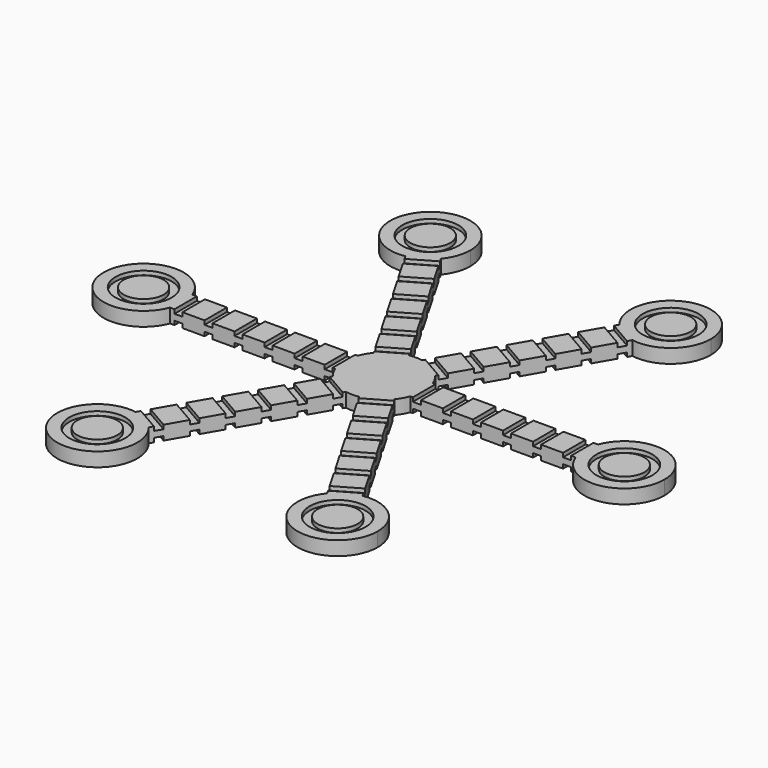
from build123d import *

# Parameters (mm, degrees)
F1_DEPTH = 3.5
F2_W     = 2
F2_H     = 6.9934307655
F2_R     = 7
F2_R_2   = 5
F3_DEPTH = 1
F4_W     = 2
F4_H     = 6.9934307655
F4_R     = 7
F4_R_2   = 5
F5_DEPTH = 1


with BuildPart() as f1:
    # F0 (on Top) → F1 (new body)
    with BuildSketch(Plane.XY):
        with BuildLine():
            Line((-59.8485457921, 3.4934307655), (-50.6300511481, 3.4934307655))
            ThreePointArc((-50.6300511481, 3.4934307655), (-69.9999993854, 0.0035059389), (-50.6325030024, -3.5))
            Line((-50.6325030024, -3.5), (-60.1517390105, -3.5))
            Line((-60.1517390105, -3.5), (-59.8485457921, 3.4934307655))
        make_face()
        with BuildLine():
            ThreePointArc((-9.3674969976, -3.5), (-9.9999993854, -0.0035059389), (-9.3699488519, 3.4934307655))
            Line((-9.3699488519, 3.4934307655), (-50.6300511481, 3.4934307655))
            ThreePointArc((-50.6300511481, 3.4934307655), (-50.158773234, 1.7748959803), (-50, 0))
            ThreePointArc((-50, 0), (-50.1593961065, -1.7783461452), (-50.6325030024, -3.5))
            Line((-50.6325030024, -3.5), (-9.3674969976, -3.5))
        make_face()
        with BuildLine():
            Line((-26.8988731067, 53.5770764183), (-22.2896257848, 45.593625872))
            ThreePointArc((-22.2896257848, 45.593625872), (-20.5897996261, 48.5780158521), (-20, 51.9615242271))
            ThreePointArc((-20, 51.9615242271), (-37.6330398877, 58.4219191122), (-28.3473404144, 42.0990338573))
            Line((-28.3473404144, 42.0990338573), (-33.1069584185, 50.3429340649))
            Line((-33.1069584185, 50.3429340649), (-26.8988731067, 53.5770764183))
        make_face()
        with BuildLine():
            ThreePointArc((-28.3473404144, 42.0990338573), (-25.0030365395, 43.299517752), (-22.2896257848, 45.593625872))
            Line((-22.2896257848, 45.593625872), (-26.8988731067, 53.5770764183))
            Line((-26.8988731067, 53.5770764183), (-33.1069584185, 50.3429340649))
            Line((-33.1069584185, 50.3429340649), (-28.3473404144, 42.0990338573))
        make_face()
        with BuildLine():
            ThreePointArc((-50, 0), (-50.158773234, 1.7748959803), (-50.6300511481, 3.4934307655))
            Line((-50.6300511481, 3.4934307655), (-59.8485457921, 3.4934307655))
            Line((-59.8485457921, 3.4934307655), (-60.1517390105, -3.5))
            Line((-60.1517390105, -3.5), (-50.6325030024, -3.5))
            ThreePointArc((-50.6325030024, -3.5), (-50.1593961065, -1.7783461452), (-50, 0))
        make_face()
        with BuildLine():
            Line((32.9496726854, 50.0836456528), (28.3404253634, 42.1001951064))
            ThreePointArc((28.3404253634, 42.1001951064), (36.457718391, 44.3262198335), (40, 51.9615242271))
            ThreePointArc((40, 51.9615242271), (26.6197909917, 61.37291026), (22.285162588, 45.5990338573))
            Line((22.285162588, 45.5990338573), (27.044780592, 53.8429340649))
            Line((27.044780592, 53.8429340649), (32.9496726854, 50.0836456528))
        make_face()
        with BuildLine():
            ThreePointArc((22.285162588, 45.5990338573), (24.9969640751, 43.3030236909), (28.3404253634, 42.1001951064))
            Line((28.3404253634, 42.1001951064), (32.9496726854, 50.0836456528))
            Line((32.9496726854, 50.0836456528), (27.044780592, 53.8429340649))
            Line((27.044780592, 53.8429340649), (22.285162588, 45.5990338573))
        make_face()
        with BuildLine():
            ThreePointArc((1.6526595856, 9.8624903698), (4.9969634605, 8.6620064751), (7.7103742152, 6.3678983551))
            Line((7.7103742152, 6.3678983551), (28.3404253634, 42.1001951064))
            ThreePointArc((28.3404253634, 42.1001951064), (24.9969640751, 43.3030236909), (22.285162588, 45.5990338573))
            Line((22.285162588, 45.5990338573), (1.6526595856, 9.8624903698))
        make_face()
        with BuildLine():
            ThreePointArc((9.3699488519, -3.4934307655), (9.841226766, -1.7748959803), (10, 0))
            ThreePointArc((10, 0), (9.8406038935, 1.7783461452), (9.3674969976, 3.5))
            ThreePointArc((9.3674969976, 3.5), (8.6585005361, 5.0030359249), (7.7103742152, 6.3678983551))
            ThreePointArc((7.7103742152, 6.3678983551), (4.9969634605, 8.6620064751), (1.6526595856, 9.8624903698))
            ThreePointArc((1.6526595856, 9.8624903698), (-0.0035059389, 9.9999993854), (-1.6595746366, 9.8613291206))
            ThreePointArc((-1.6595746366, 9.8613291206), (-5.0030359249, 8.6585005361), (-7.714837412, 6.3624903698))
            ThreePointArc((-7.714837412, 6.3624903698), (-8.6620064751, 4.9969634605), (-9.3699488519, 3.4934307655))
            ThreePointArc((-9.3699488519, 3.4934307655), (-9.9999993854, -0.0035059389), (-9.3674969976, -3.5))
            ThreePointArc((-9.3674969976, -3.5), (-8.6585005361, -5.0030359249), (-7.7103742152, -6.3678983551))
            ThreePointArc((-7.7103742152, -6.3678983551), (-4.9969634605, -8.6620064751), (-1.6526595856, -9.8624903698))
            ThreePointArc((-1.6526595856, -9.8624903698), (0.0035059389, -9.9999993854), (1.6595746366, -9.8613291206))
            ThreePointArc((1.6595746366, -9.8613291206), (5.0030359249, -8.6585005361), (7.714837412, -6.3624903698))
            ThreePointArc((7.714837412, -6.3624903698), (8.6620064751, -4.9969634605), (9.3699488519, -3.4934307655))
        make_face()
        with BuildLine():
            ThreePointArc((9.3674969976, 3.5), (9.8406038935, 1.7783461452), (10, 0))
            ThreePointArc((10, 0), (9.841226766, -1.7748959803), (9.3699488519, -3.4934307655))
            Line((9.3699488519, -3.4934307655), (50.6300511481, -3.4934307655))
            ThreePointArc((50.6300511481, -3.4934307655), (50.0000006146, 0.0035059389), (50.6325030024, 3.5))
            Line((50.6325030024, 3.5), (9.3674969976, 3.5))
        make_face()
        with BuildLine():
            Line((60.1517390105, 3.5), (50.6325030024, 3.5))
            ThreePointArc((50.6325030024, 3.5), (50.0000006146, 0.0035059389), (50.6300511481, -3.4934307655))
            Line((50.6300511481, -3.4934307655), (59.8485457921, -3.4934307655))
            Line((59.8485457921, -3.4934307655), (60.1517390105, 3.5))
        make_face()
        with BuildLine():
            ThreePointArc((70, 0), (61.7783461452, 9.8406038935), (50.6325030024, 3.5))
            Line((50.6325030024, 3.5), (60.1517390105, 3.5))
            Line((60.1517390105, 3.5), (59.8485457921, -3.4934307655))
            Line((59.8485457921, -3.4934307655), (50.6300511481, -3.4934307655))
            ThreePointArc((50.6300511481, -3.4934307655), (61.7748959803, -9.841226766), (70, 0))
        make_face()
        with BuildLine():
            ThreePointArc((40, -51.9615242271), (36.4603948852, -44.3284843393), (28.3473404144, -42.0990338573))
            Line((28.3473404144, -42.0990338573), (33.1069584185, -50.3429340649))
            Line((33.1069584185, -50.3429340649), (26.8988731067, -53.5770764183))
            Line((26.8988731067, -53.5770764183), (22.2896257848, -45.593625872))
            ThreePointArc((22.2896257848, -45.593625872), (26.616491625, -61.3717246009), (40, -51.9615242271))
        make_face()
        with BuildLine():
            Line((33.1069584185, -50.3429340649), (28.3473404144, -42.0990338573))
            ThreePointArc((28.3473404144, -42.0990338573), (25.0030365395, -43.299517752), (22.2896257848, -45.593625872))
            Line((22.2896257848, -45.593625872), (26.8988731067, -53.5770764183))
            Line((26.8988731067, -53.5770764183), (33.1069584185, -50.3429340649))
        make_face()
        with BuildLine():
            Line((28.3473404144, -42.0990338573), (7.714837412, -6.3624903698))
            ThreePointArc((7.714837412, -6.3624903698), (5.0030359249, -8.6585005361), (1.6595746366, -9.8613291206))
            Line((1.6595746366, -9.8613291206), (22.2896257848, -45.593625872))
            ThreePointArc((22.2896257848, -45.593625872), (25.0030365395, -43.299517752), (28.3473404144, -42.0990338573))
        make_face()
        with BuildLine():
            Line((-22.285162588, -45.5990338573), (-1.6526595856, -9.8624903698))
            ThreePointArc((-1.6526595856, -9.8624903698), (-4.9969634605, -8.6620064751), (-7.7103742152, -6.3678983551))
            Line((-7.7103742152, -6.3678983551), (-28.3404253634, -42.1001951064))
            ThreePointArc((-28.3404253634, -42.1001951064), (-24.9969640751, -43.3030236909), (-22.285162588, -45.5990338573))
        make_face()
        with BuildLine():
            Line((-27.044780592, -53.8429340649), (-22.285162588, -45.5990338573))
            ThreePointArc((-22.285162588, -45.5990338573), (-24.9969640751, -43.3030236909), (-28.3404253634, -42.1001951064))
            Line((-28.3404253634, -42.1001951064), (-32.9496726854, -50.0836456528))
            Line((-32.9496726854, -50.0836456528), (-27.044780592, -53.8429340649))
        make_face()
        with BuildLine():
            ThreePointArc((-20, -51.9615242271), (-20.5886139671, -48.5813152188), (-22.285162588, -45.5990338573))
            Line((-22.285162588, -45.5990338573), (-27.044780592, -53.8429340649))
            Line((-27.044780592, -53.8429340649), (-32.9496726854, -50.0836456528))
            Line((-32.9496726854, -50.0836456528), (-28.3404253634, -42.1001951064))
            ThreePointArc((-28.3404253634, -42.1001951064), (-37.6353043936, -58.419242618), (-20, -51.9615242271))
        make_face()
        with BuildLine():
            ThreePointArc((-7.714837412, 6.3624903698), (-5.0030359249, 8.6585005361), (-1.6595746366, 9.8613291206))
            Line((-1.6595746366, 9.8613291206), (-22.2896257848, 45.593625872))
            ThreePointArc((-22.2896257848, 45.593625872), (-25.0030365395, 43.299517752), (-28.3473404144, 42.0990338573))
            Line((-28.3473404144, 42.0990338573), (-7.714837412, 6.3624903698))
        make_face()
    extrude(amount=F1_DEPTH)

    # F2 (on face) → F3 (cut)
    with BuildSketch(Plane.XY.offset(3.5)):
        Polygon((-17.9689110868, -38.1230669589), (-16.9689110868, -36.3910161514), (-23.0253997893, -32.8943007686), (-24.0253997893, -34.6263515762), align=None)
        Polygon((-14.2189110868, -31.6278764306), (-13.2189110868, -29.895825623), (-19.2753997893, -26.3991102402), (-20.2753997893, -28.1311610478), align=None)
        Polygon((-10.4689110868, -25.1326859022), (-9.4689110868, -23.4006350946), (-15.5253997893, -19.9039197118), (-16.5253997893, -21.6359705194), align=None)
        Polygon((-6.7189110868, -18.6374953738), (-5.7189110868, -16.9054445662), (-11.7753997893, -13.4087291835), (-12.7753997893, -15.140779991), align=None)
        Polygon((-2.9689110868, -12.1423048454), (-1.9689110868, -10.4102540378), (-8.0253997893, -6.9135386551), (-9.0253997893, -8.6455894626), align=None)
        Polygon((9.0310889132, -8.6423048454), (8.0310889132, -6.9102540378), (1.9746002107, -10.4069694206), (2.9746002107, -12.1390202282), align=None)
        Polygon((12.7810889132, -15.1374953738), (11.7810889132, -13.4054445662), (5.7246002107, -16.902159949), (6.7246002107, -18.6342107566), align=None)
        Polygon((16.5310889132, -21.6326859022), (15.5310889132, -19.9006350946), (9.4746002107, -23.3973504774), (10.4746002107, -25.1294012849), align=None)
        Polygon((20.2810889132, -28.1278764306), (19.2810889132, -26.395825623), (13.2246002107, -29.8925410058), (14.2246002107, -31.6245918133), align=None)
        Polygon((24.0310889132, -34.6230669589), (23.0310889132, -32.8910161514), (16.9746002107, -36.3877315341), (17.9746002107, -38.1197823417), align=None)
        with Locations((41, 0.0032846172)):
            Rectangle(F2_W, F2_H)
        with Locations((26, 0.0032846172)):
            Rectangle(F2_W, F2_H)
        with Locations((18.5, 0.0032846172)):
            Rectangle(F2_W, F2_H)
        with Locations((11, 0.0032846172)):
            Rectangle(F2_W, F2_H)
        Polygon((16.9689110868, 36.3910161514), (23.0253997893, 32.8943007686), (24.0253997893, 34.6263515762), (17.9689110868, 38.1230669589), align=None)
        Polygon((13.2189110868, 29.895825623), (19.2753997893, 26.3991102402), (20.2753997893, 28.1311610478), (14.2189110868, 31.6278764306), align=None)
        Polygon((9.4689110868, 23.4006350946), (15.5253997893, 19.9039197118), (16.5253997893, 21.6359705194), (10.4689110868, 25.1326859022), align=None)
        Polygon((5.7189110868, 16.9054445662), (11.7753997893, 13.4087291835), (12.7753997893, 15.140779991), (6.7189110868, 18.6374953738), align=None)
        Polygon((1.9689110868, 10.4102540378), (8.0253997893, 6.9135386551), (9.0253997893, 8.6455894626), (2.9689110868, 12.1423048454), align=None)
        Polygon((-8.0310889132, 6.9102540378), (-1.9746002107, 10.4069694206), (-2.9746002107, 12.1390202282), (-9.0310889132, 8.6423048454), align=None)
        Polygon((-11.7810889132, 13.4054445662), (-5.7246002107, 16.902159949), (-6.7246002107, 18.6342107566), (-12.7810889132, 15.1374953738), align=None)
        Polygon((-15.5310889132, 19.9006350946), (-9.4746002107, 23.3973504774), (-10.4746002107, 25.1294012849), (-16.5310889132, 21.6326859022), align=None)
        Polygon((-19.2810889132, 26.395825623), (-13.2246002107, 29.8925410058), (-14.2246002107, 31.6245918133), (-20.2810889132, 28.1278764306), align=None)
        Polygon((-23.0310889132, 32.8910161514), (-16.9746002107, 36.3877315341), (-17.9746002107, 38.1197823417), (-24.0310889132, 34.6230669589), align=None)
        with Locations((-11, -0.0032846172)):
            Rectangle(F2_W, F2_H)
        with Locations((-18.5, -0.0032846172)):
            Rectangle(F2_W, F2_H)
        with Locations((-26, -0.0032846172)):
            Rectangle(F2_W, F2_H)
        with Locations((-33.5, -0.0032846172)):
            Rectangle(F2_W, F2_H)
        with Locations((-41, -0.0032846172)):
            Rectangle(F2_W, F2_H)
        with Locations((-30, 51.9615242271)):
            Circle(F2_R)
        with Locations((-30, 51.9615242271)):
            Circle(F2_R_2, mode=Mode.SUBTRACT)
        with Locations((30, 51.9615242271)):
            Circle(F2_R)
        with Locations((30, 51.9615242271)):
            Circle(F2_R_2, mode=Mode.SUBTRACT)
        with Locations((60, 0)):
            Circle(F2_R)
        with Locations((60, 0)):
            Circle(F2_R_2, mode=Mode.SUBTRACT)
        with Locations((30, -51.9615242271)):
            Circle(F2_R)
        with Locations((30, -51.9615242271)):
            Circle(F2_R_2, mode=Mode.SUBTRACT)
        with Locations((-30, -51.9615242271)):
            Circle(F2_R)
        with Locations((-30, -51.9615242271)):
            Circle(F2_R_2, mode=Mode.SUBTRACT)
        with Locations((-60, 0)):
            Circle(F2_R)
        with Locations((-60, 0)):
            Circle(F2_R_2, mode=Mode.SUBTRACT)
        with Locations((33.5, 0.0032846172)):
            Rectangle(F2_W, F2_H)
        with Locations((48.5, 0.0032846172)):
            Rectangle(F2_W, F2_H)
        Polygon((20.7189110868, 42.8862066798), (26.7753997893, 39.389491297), (27.7753997893, 41.1215421046), (21.7189110868, 44.6182574873), align=None)
        Polygon((-26.7810889132, 39.3862066798), (-20.7246002107, 42.8829220625), (-21.7246002107, 44.6149728701), (-27.7810889132, 41.1182574873), align=None)
        with Locations((-48.5, -0.0032846172)):
            Rectangle(F2_W, F2_H)
        Polygon((-21.7189110868, -44.6182574873), (-20.7189110868, -42.8862066798), (-26.7753997893, -39.389491297), (-27.7753997893, -41.1215421046), align=None)
        Polygon((27.7810889132, -41.1182574873), (26.7810889132, -39.3862066798), (20.7246002107, -42.8829220625), (21.7246002107, -44.6149728701), align=None)
    extrude(amount=-F3_DEPTH, mode=Mode.SUBTRACT)

    # F4 (on face) → F5 (cut)
    with BuildSketch(Plane(origin=(0, 0, 0), x_dir=(1, 0, 0), z_dir=(0, 0, -1))):
        Polygon((9.0253997893, -8.6455894626), (8.0253997893, -6.9135386551), (1.9689110868, -10.4102540378), (2.9689110868, -12.1423048454), align=None)
        Polygon((12.7753997893, -15.140779991), (11.7753997893, -13.4087291835), (5.7189110868, -16.9054445662), (6.7189110868, -18.6374953738), align=None)
        Polygon((16.5253997893, -21.6359705194), (15.5253997893, -19.9039197118), (9.4689110868, -23.4006350946), (10.4689110868, -25.1326859022), align=None)
        Polygon((20.2753997893, -28.1311610478), (19.2753997893, -26.3991102402), (13.2189110868, -29.895825623), (14.2189110868, -31.6278764306), align=None)
        Polygon((24.0253997893, -34.6263515762), (23.0253997893, -32.8943007686), (16.9689110868, -36.3910161514), (17.9689110868, -38.1230669589), align=None)
        Polygon((27.7753997893, -41.1215421046), (26.7753997893, -39.389491297), (20.7189110868, -42.8862066798), (21.7189110868, -44.6182574873), align=None)
        with Locations((11, -0.0032846172)):
            Rectangle(F4_W, F4_H)
        with Locations((18.5, -0.0032846172)):
            Rectangle(F4_W, F4_H)
        with Locations((26, -0.0032846172)):
            Rectangle(F4_W, F4_H)
        with Locations((33.5, -0.0032846172)):
            Rectangle(F4_W, F4_H)
        with Locations((41, -0.0032846172)):
            Rectangle(F4_W, F4_H)
        with Locations((48.5, -0.0032846172)):
            Rectangle(F4_W, F4_H)
        Polygon((20.7246002107, 42.8829220625), (26.7810889132, 39.3862066798), (27.7810889132, 41.1182574873), (21.7246002107, 44.6149728701), align=None)
        Polygon((16.9746002107, 36.3877315341), (23.0310889132, 32.8910161514), (24.0310889132, 34.6230669589), (17.9746002107, 38.1197823417), align=None)
        Polygon((13.2246002107, 29.8925410058), (19.2810889132, 26.395825623), (20.2810889132, 28.1278764306), (14.2246002107, 31.6245918133), align=None)
        Polygon((9.4746002107, 23.3973504774), (15.5310889132, 19.9006350946), (16.5310889132, 21.6326859022), (10.4746002107, 25.1294012849), align=None)
        Polygon((5.7246002107, 16.902159949), (11.7810889132, 13.4054445662), (12.7810889132, 15.1374953738), (6.7246002107, 18.6342107566), align=None)
        Polygon((1.9746002107, 10.4069694206), (8.0310889132, 6.9102540378), (9.0310889132, 8.6423048454), (2.9746002107, 12.1390202282), align=None)
        Polygon((-2.9746002107, -12.1390202282), (-1.9746002107, -10.4069694206), (-8.0310889132, -6.9102540378), (-9.0310889132, -8.6423048454), align=None)
        Polygon((-6.7246002107, -18.6342107566), (-5.7246002107, -16.902159949), (-11.7810889132, -13.4054445662), (-12.7810889132, -15.1374953738), align=None)
        Polygon((-10.4746002107, -25.1294012849), (-9.4746002107, -23.3973504774), (-15.5310889132, -19.9006350946), (-16.5310889132, -21.6326859022), align=None)
        Polygon((-14.2246002107, -31.6245918133), (-13.2246002107, -29.8925410058), (-19.2810889132, -26.395825623), (-20.2810889132, -28.1278764306), align=None)
        Polygon((-17.9746002107, -38.1197823417), (-16.9746002107, -36.3877315341), (-23.0310889132, -32.8910161514), (-24.0310889132, -34.6230669589), align=None)
        Polygon((-21.7246002107, -44.6149728701), (-20.7246002107, -42.8829220625), (-26.7810889132, -39.3862066798), (-27.7810889132, -41.1182574873), align=None)
        with Locations((-48.5, 0.0032846172)):
            Rectangle(F4_W, F4_H)
        with Locations((-41, 0.0032846172)):
            Rectangle(F4_W, F4_H)
        with Locations((-33.5, 0.0032846172)):
            Rectangle(F4_W, F4_H)
        with Locations((-26, 0.0032846172)):
            Rectangle(F4_W, F4_H)
        with Locations((-18.5, 0.0032846172)):
            Rectangle(F4_W, F4_H)
        with Locations((-11, 0.0032846172)):
            Rectangle(F4_W, F4_H)
        Polygon((-23.0253997893, 32.8943007686), (-16.9689110868, 36.3910161514), (-17.9689110868, 38.1230669589), (-24.0253997893, 34.6263515762), align=None)
        Polygon((-19.2753997893, 26.3991102402), (-13.2189110868, 29.895825623), (-14.2189110868, 31.6278764306), (-20.2753997893, 28.1311610478), align=None)
        Polygon((-8.0253997893, 6.9135386551), (-1.9689110868, 10.4102540378), (-2.9689110868, 12.1423048454), (-9.0253997893, 8.6455894626), align=None)
        Polygon((-26.7753997893, 39.389491297), (-20.7189110868, 42.8862066798), (-21.7189110868, 44.6182574873), (-27.7753997893, 41.1215421046), align=None)
        Polygon((-15.5253997893, 19.9039197118), (-9.4689110868, 23.4006350946), (-10.4689110868, 25.1326859022), (-16.5253997893, 21.6359705194), align=None)
        Polygon((-11.7753997893, 13.4087291835), (-5.7189110868, 16.9054445662), (-6.7189110868, 18.6374953738), (-12.7753997893, 15.140779991), align=None)
        with Locations((60, 0)):
            Circle(F4_R)
        with Locations((60, 0)):
            Circle(F4_R_2, mode=Mode.SUBTRACT)
        with Locations((30, 51.9615242271)):
            Circle(F4_R)
        with Locations((30, 51.9615242271)):
            Circle(F4_R_2, mode=Mode.SUBTRACT)
        with Locations((-30, 51.9615242271)):
            Circle(F4_R)
        with Locations((-30, 51.9615242271)):
            Circle(F4_R_2, mode=Mode.SUBTRACT)
        with Locations((-60, 0)):
            Circle(F4_R)
        with Locations((-60, 0)):
            Circle(F4_R_2, mode=Mode.SUBTRACT)
        with Locations((-30, -51.9615242271)):
            Circle(F4_R)
        with Locations((-30, -51.9615242271)):
            Circle(F4_R_2, mode=Mode.SUBTRACT)
        with Locations((30, -51.9615242271)):
            Circle(F4_R)
        with Locations((30, -51.9615242271)):
            Circle(F4_R_2, mode=Mode.SUBTRACT)
    extrude(amount=-F5_DEPTH, mode=Mode.SUBTRACT)


solid = f1.part
